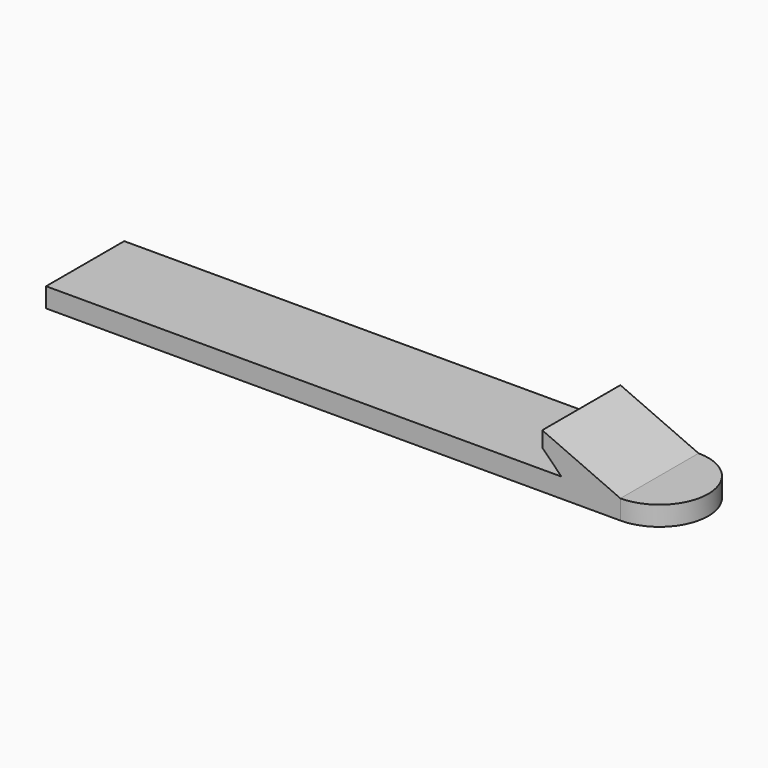
from build123d import *

# Parameters (mm, degrees)
F0_W     = 59.7408
F0_H     = 10.16
F1_DEPTH = 2.032
F4_DEPTH = 10.16
F6_DEPTH = 10.161


with BuildPart() as f1:
    # F0 (on Top) → F1 (new body)
    with BuildSketch(Plane.XY):
        with Locations((10.114113, -35.470716)):
            Rectangle(F0_W, F0_H)
        with BuildLine():
            ThreePointArc((39.984513, -40.550716), (45.064513, -35.470716), (39.984513, -30.390716))
            Line((39.984513, -30.390716), (39.984513, -40.550716))
        make_face()
    extrude(amount=F1_DEPTH)

    # F3 (on face) → F4 (join)
    with BuildSketch(Plane.XZ.offset(40.550716)):
        Polygon((31.856513, 2.032), (39.984513, 2.032), (31.856513, 5.632), align=None)
    extrude(amount=-F4_DEPTH)

    # F5 (on face) → F6 (cut, through all)
    with BuildSketch(Plane.XZ.offset(40.550716)):
        Polygon((33.856513, 2.032), (31.856513, 4.032), (31.856513, 2.032), align=None)
    extrude(amount=-F6_DEPTH, mode=Mode.SUBTRACT)


solid = f1.part
